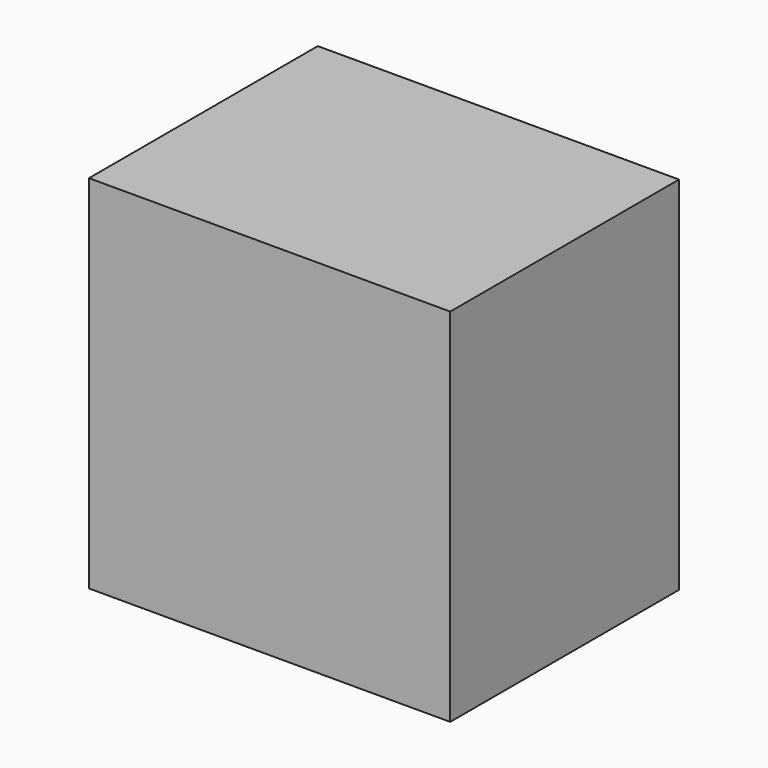
from build123d import *

# Parameters (mm, degrees)
F0_W     = 609.6
F0_H     = 609.6
F1_DEPTH = 609.6
F2_SIZE  = 127
F3_W     = 228.6
F3_H     = 355.6
F3_W_2   = 127
F3_W_3   = 351.28561
F4_DEPTH = 459.74
F5_SIZE  = 127


with BuildPart() as f1:
    # F0 (on Top) → F1 (new body)
    with BuildSketch(Plane.XY):
        with Locations((281.144673, 257.611539)):
            Rectangle(F0_W, F0_H)
    extrude(amount=F1_DEPTH)

    # F2
    f2_edges = [f1.edges().sort_by_distance(p)[0] for p in [
        (585.944673, 562.411539, 304.8),
        (-23.655327, 562.411539, 304.8),
        (281.144673, 562.411539, 0),
        (281.144673, 562.411539, 609.6),
    ]]
    chamfer(f2_edges, length=F2_SIZE)

    # F3 (on face) → F4 (cut)
    with BuildSketch(Plane(origin=(-23.655327, 0, 0), x_dir=(0, -1, 0), z_dir=(-1, 0, 0))):
        with Locations((-194.111539, 304.8)):
            Rectangle(F3_W, F3_H)
        with Locations((-371.911539, 304.8)):
            Rectangle(F3_W_2, F3_H)
        with Locations((-611.054344, 304.8)):
            Rectangle(F3_W_3, F3_H)
    extrude(amount=-F4_DEPTH, mode=Mode.SUBTRACT)

    # F5
    f5_edges = [f1.edges().sort_by_distance(p)[0] for p in [
        (436.084673, 79.811539, 304.8),
    ]]
    chamfer(f5_edges, length=F5_SIZE)


solid = f1.part
